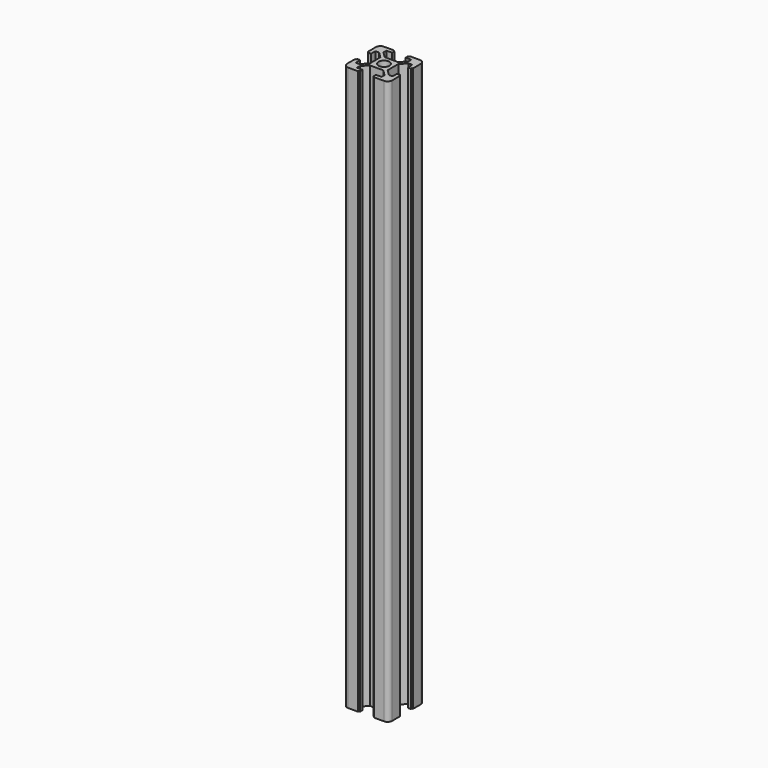
from build123d import *

# Parameters (mm, degrees)
F0_R     = 2.4
F1_DEPTH = 250
F2_R     = 2


with BuildPart() as f1:
    # F0 (on Top) → F1 (new body)
    with BuildSketch(Plane.XY):
        Polygon((10, 3.5), (10, 10), (3.5, 10), (3.5, 9.5), (3, 9.5), (3, 8.2), (5.5, 8.2), (5.5, 6.56066), (2.93934, 4), (0, 4), (-2.93934, 4), (-5.5, 6.56066), (-5.5, 8.2), (-3, 8.2), (-3, 9.5), (-3.5, 9.5), (-3.5, 10), (-10, 10), (-10, 3.5), (-9.5, 3.5), (-9.5, 3), (-8.2, 3), (-8.2, 5.5), (-6.56066, 5.5), (-4, 2.93934), (-4, -2.93934), (-6.56066, -5.5), (-8.2, -5.5), (-8.2, -3), (-9.5, -3), (-9.5, -3.5), (-10, -3.5), (-10, -10), (-3.5, -10), (-3.5, -9.5), (-3, -9.5), (-3, -8.2), (-5.5, -8.2), (-5.5, -6.56066), (-2.93934, -4), (0, -4), (2.93934, -4), (5.5, -6.56066), (5.5, -8.2), (3, -8.2), (3, -9.5), (3.5, -9.5), (3.5, -10), (10, -10), (10, -3.5), (9.5, -3.5), (9.5, -3), (8.2, -3), (8.2, -5.5), (6.56066, -5.5), (4, -2.93934), (4, 2.93934), (6.56066, 5.5), (8.2, 5.5), (8.2, 3), (9.5, 3), (9.5, 3.5), align=None)
        Circle(F0_R, mode=Mode.SUBTRACT)
    extrude(amount=F1_DEPTH)

    # F2
    f2_edges = [f1.edges().sort_by_distance(p)[0] for p in [
        (10, 10, 125),
        (10, -10, 125),
        (-10, -10, 125),
        (-10, 10, 125),
    ]]
    fillet(f2_edges, radius=F2_R)


solid = f1.part
